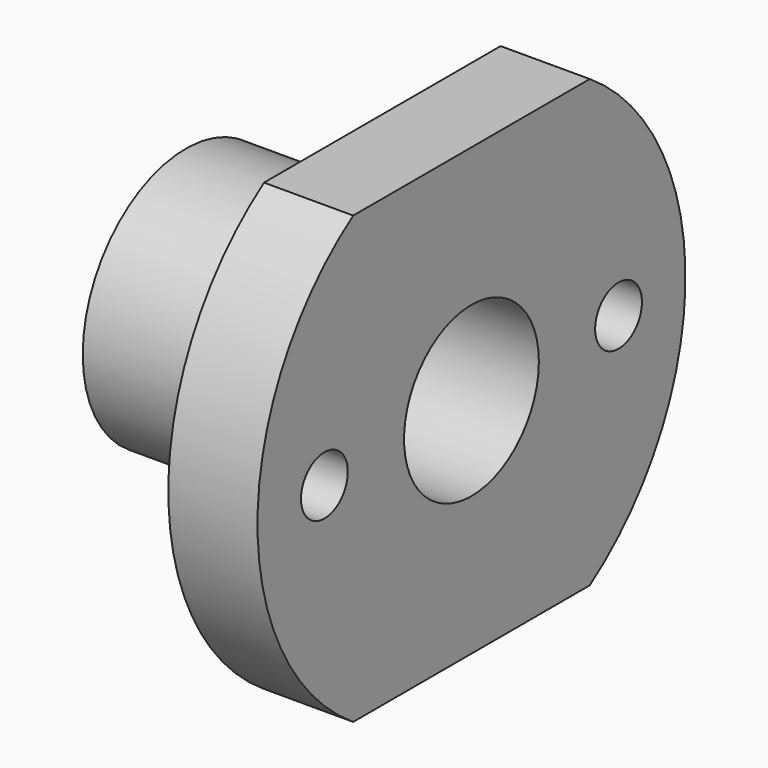
from build123d import *

# Parameters (mm, degrees)
F1_DEPTH = 12.7
F2_R     = 18.3515
F3_DEPTH = 27.9908
F4_R     = 12.0015
F5_DEPTH = 40.6918
F6_D     = 8.3312
F7_R     = 2.3622
F8_DEPTH = 25.4


with BuildPart() as f1:
    # F0 (on Right) → F1 (new body)
    with BuildSketch(Plane.YZ):
        with BuildLine():
            Line((21.060567, 31.75), (-21.060567, 31.75))
            ThreePointArc((-21.060567, 31.75), (-38.1, 0), (-21.060567, -31.75))
            Line((-21.060567, -31.75), (21.060567, -31.75))
            ThreePointArc((21.060567, -31.75), (38.1, 0), (21.060567, 31.75))
        make_face()
    extrude(amount=-F1_DEPTH)

    # F2 (on face) → F3 (join)
    with BuildSketch(Plane(origin=(-12.7, 0, 0), x_dir=(0, -1, 0), z_dir=(-1, 0, 0))):
        Circle(F2_R)
    extrude(amount=F3_DEPTH)

    # F4 (on face) → F5 (cut, through all)
    with BuildSketch(Plane.YZ):
        Circle(F4_R)
    extrude(amount=-F5_DEPTH, mode=Mode.SUBTRACT)

    # F6 (through all)
    with Locations(Plane.YZ):
        with Locations((26.1874, 0), (-26.1874, 0)):
            Hole(F6_D / 2)

    # F7 (on Front) → F8 (cut)
    with BuildSketch(Plane.XZ):
        with Locations((-34.3408, 0)):
            Circle(F7_R)
    extrude(amount=-F8_DEPTH, mode=Mode.SUBTRACT)


solid = f1.part
